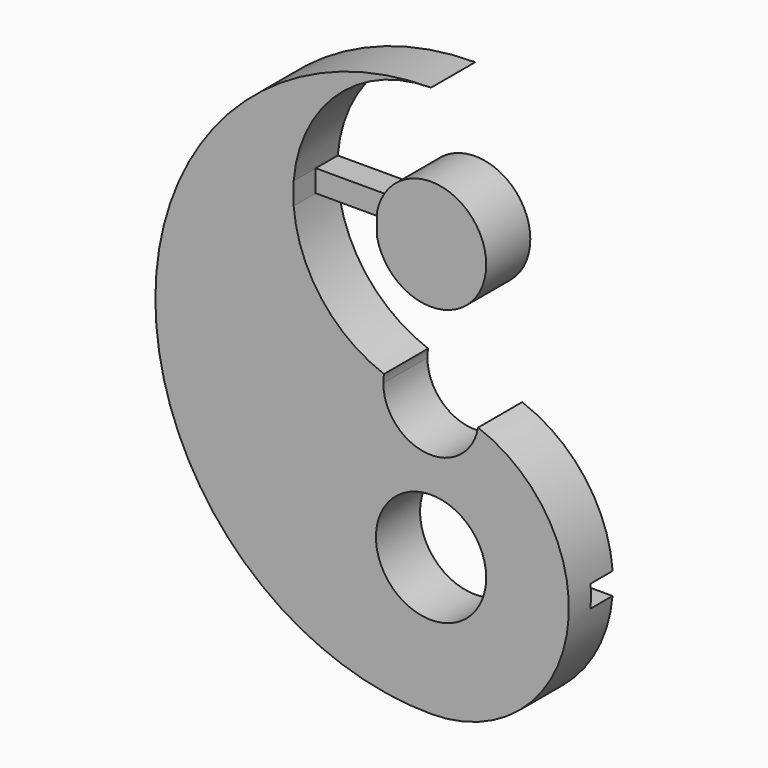
from build123d import *

# Parameters (mm, degrees)
F0_R     = 12.7
F1_DEPTH = 12.7
F3_DEPTH = 6.35
F4_W     = 19.2048290244
F4_H     = 5.08
F5_DEPTH = 6.35
F7_DEPTH = 25.4


with BuildPart() as f1:
    # F0 (on Front) → F1 (new body)
    with BuildSketch(Plane.XZ):
        with BuildLine():
            ThreePointArc((-31.6482369177, 34.29), (-21.5338976964, 55.0813898), (0, 63.5))
            ThreePointArc((0, 63.5), (-63.5, 0), (0, -63.5))
            ThreePointArc((0, -63.5), (31.75, -31.75), (0, 0))
            ThreePointArc((0, 0), (-21.5338976964, 8.4186102), (-31.6482369177, 29.21))
            Line((-31.6482369177, 29.21), (-12.4434078933, 29.21))
            ThreePointArc((-12.4434078933, 29.21), (12.7, 31.75), (-12.4434078933, 34.29))
            Line((-12.4434078933, 34.29), (-31.6482369177, 34.29))
        make_face()
        with Locations((0, -31.75)):
            Circle(F0_R, mode=Mode.SUBTRACT)
    extrude(amount=F1_DEPTH)

    # F2 (on face) → F3 (cut)
    with BuildSketch(Plane(origin=(0, 0, 0), x_dir=(-1, 0, 0), z_dir=(0, 1, 0))):
        with BuildLine():
            ThreePointArc((-12.410179803, -34.4476725629), (-12.6989804051, -31.910924424), (-12.4745547408, -29.3676725629))
            Line((-12.4745547408, -29.3676725629), (-31.6604961424, -29.3676725629))
            ThreePointArc((-31.6604961424, -29.3676725629), (-31.7496059696, -31.9081795626), (-31.6351870983, -34.4476725629))
            Line((-31.6351870983, -34.4476725629), (-12.410179803, -34.4476725629))
        make_face()
    extrude(amount=-F3_DEPTH, mode=Mode.SUBTRACT)

    # F4 (on face) → F5 (cut)
    with BuildSketch(Plane.XZ.offset(12.7)):
        with Locations((-22.0458224055, 31.75)):
            Rectangle(F4_W, F4_H)
    extrude(amount=-F5_DEPTH, mode=Mode.SUBTRACT)

    # F6 (on face) → F7 (cut)
    with BuildSketch(Plane(origin=(0, 0, 0), x_dir=(-1, 0, 0), z_dir=(0, 1, 0))):
        with BuildLine():
            ThreePointArc((-10.8319806145, -1.90488824), (0.9560632943, -10.9565663516), (10.9982, 0))
            ThreePointArc((10.9982, 0), (10.9565663516, 0.9560632943), (10.8319806145, 1.90488824))
            ThreePointArc((10.8319806145, 1.90488824), (5.4991, 0.4798481105), (0, 0))
            ThreePointArc((0, 0), (-5.4991, -0.4798481105), (-10.8319806145, -1.90488824))
        make_face()
    extrude(amount=-F7_DEPTH, mode=Mode.SUBTRACT)


solid = f1.part
